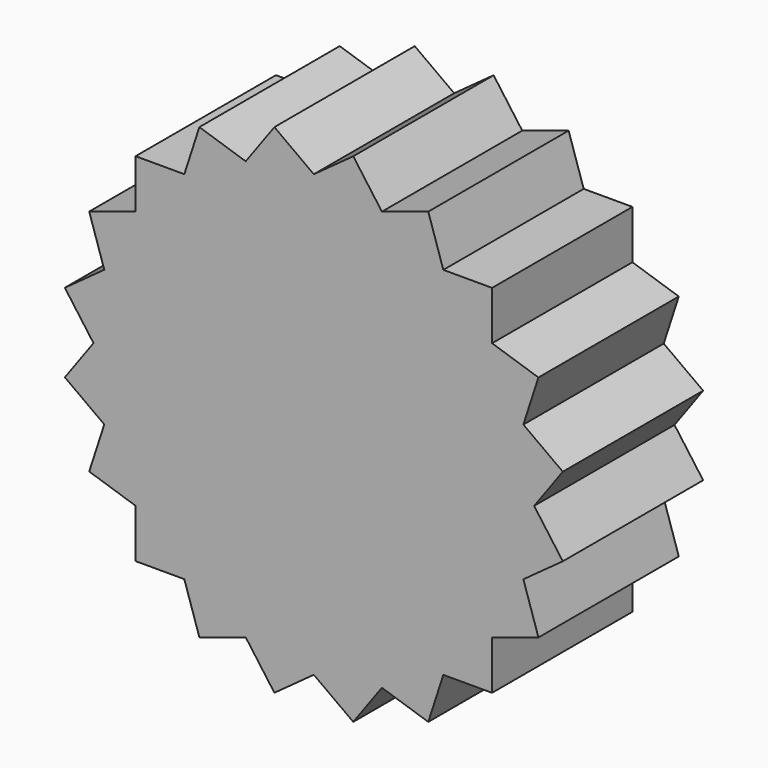
from build123d import *

# Parameters (mm, degrees)
F1_DEPTH = 25


with BuildPart() as f1:
    # F0 (on Front) → F1 (new body)
    with BuildSketch(Plane.XZ):
        Polygon((9.7019366858, -29.8594908165), (4.4594908165, -28.1561168971), (0, -31.3961266285), (5.6192862489, -35.4787770654), align=None)
        Polygon((5.6192862489, 35.4787770654), (0, 31.3961266285), (4.4594908165, 28.1561168971), (9.7019366858, 29.8594908165), align=None)
        Polygon((-28.1561168971, -4.4594908165), (-31.3961266285, 0), (-35.4787770654, -5.6192862489), (-29.8594908165, -9.7019366858), align=None)
        Polygon((4.0229647842, 25.4), (-4.0229647842, 25.4), (-11.67509853, 22.9136710278), (-18.1843922865, 18.1843922865), (-22.9136710278, 11.67509853), (-25.4, 4.0229647842), (-25.4, -4.0229647842), (-22.9136710278, -11.67509853), (-18.1843922865, -18.1843922865), (-11.67509853, -22.9136710278), (-4.0229647842, -25.4), (4.0229647842, -25.4), (11.67509853, -22.9136710278), (18.1843922865, -18.1843922865), (22.9136710278, -11.67509853), (25.4, -4.0229647842), (25.4, 4.0229647842), (22.9136710278, 11.67509853), (18.1843922865, 18.1843922865), (11.67509853, 22.9136710278), align=None)
        Polygon((25.4, 18.4541802113), (20.1575541307, 20.1575541307), (21.6065305321, 15.6980633142), (25.4, 12.9419464172), align=None)
        Polygon((-12.9419464172, -25.4), (-15.6980633142, -21.6065305321), (-20.1575541307, -20.1575541307), (-18.4541802113, -25.4), align=None)
        Polygon((-18.4541802113, 25.4), (-25.4, 25.4), (-25.4, 18.4541802113), (-20.1575541307, 20.1575541307), align=None)
        Polygon((-16.3078038568, 32.005867171), (-18.4541802113, 25.4), (-12.9419464172, 25.4), (-9.7019366858, 29.8594908165), align=None)
        Polygon((9.7019366858, 29.8594908165), (12.9419464172, 25.4), (18.4541802113, 25.4), (16.3078038568, 32.005867171), align=None)
        Polygon((25.4, -25.4), (25.4, -18.4541802113), (20.1575541307, -20.1575541307), (18.4541802113, -25.4), align=None)
        Polygon((-25.4, 12.9419464172), (-25.4, 18.4541802113), (-32.005867171, 16.3078038568), (-29.8594908165, 9.7019366858), align=None)
        Polygon((32.005867171, 16.3078038568), (25.4, 18.4541802113), (25.4, 12.9419464172), (29.8594908165, 9.7019366858), align=None)
        Polygon((29.8594908165, -9.7019366858), (25.4, -12.9419464172), (25.4, -18.4541802113), (32.005867171, -16.3078038568), align=None)
        Polygon((35.4787770654, 5.6192862489), (29.8594908165, 9.7019366858), (28.1561168971, 4.4594908165), (31.3961266285, 0), align=None)
        Polygon((-25.4, 4.0229647842), (-25.4, 8.2529602843), (-28.1561168971, 4.4594908165), (-26.7071404957, 0), align=None)
        Polygon((-4.4594908165, 28.1561168971), (-8.2529602843, 25.4), (-4.0229647842, 25.4), (0, 26.7071404957), align=None)
        Polygon((4.4594908165, -28.1561168971), (0, -26.7071404957), (-4.4594908165, -28.1561168971), (0, -31.3961266285), align=None)
        Polygon((15.6980633142, -21.6065305321), (12.9419464172, -25.4), (18.4541802113, -25.4), (20.1575541307, -20.1575541307), align=None)
        Polygon((0, 31.3961266285), (-4.4594908165, 28.1561168971), (0, 26.7071404957), (4.4594908165, 28.1561168971), align=None)
        Polygon((-28.1561168971, 4.4594908165), (-29.8594908165, 9.7019366858), (-35.4787770654, 5.6192862489), (-31.3961266285, 0), align=None)
        Polygon((-15.6980633142, 21.6065305321), (-20.1575541307, 20.1575541307), (-21.6065305321, 15.6980633142), (-18.1843922865, 18.1843922865), align=None)
        Polygon((28.1561168971, 4.4594908165), (25.4, 8.2529602843), (25.4, 4.0229647842), (26.7071404957, 0), align=None)
        Polygon((0, -26.7071404957), (-4.0229647842, -25.4), (-8.2529602843, -25.4), (-4.4594908165, -28.1561168971), align=None)
        Polygon((26.7071404957, 0), (25.4, -4.0229647842), (25.4, -8.2529602843), (28.1561168971, -4.4594908165), align=None)
        Polygon((-25.4, -12.9419464172), (-25.4, -8.2529602843), (-28.1561168971, -4.4594908165), (-29.8594908165, -9.7019366858), align=None)
        Polygon((28.1561168971, -4.4594908165), (25.4, -8.2529602843), (25.4, -12.9419464172), (29.8594908165, -9.7019366858), align=None)
        Polygon((-25.4, 8.2529602843), (-25.4, 12.9419464172), (-29.8594908165, 9.7019366858), (-28.1561168971, 4.4594908165), align=None)
        Polygon((11.67509853, -22.9136710278), (8.2529602843, -25.4), (12.9419464172, -25.4), (15.6980633142, -21.6065305321), align=None)
        Polygon((25.4, 25.4), (18.4541802113, 25.4), (20.1575541307, 20.1575541307), (25.4, 18.4541802113), align=None)
        Polygon((12.9419464172, 25.4), (8.2529602843, 25.4), (11.67509853, 22.9136710278), (15.6980633142, 21.6065305321), align=None)
        Polygon((8.2529602843, -25.4), (4.0229647842, -25.4), (0, -26.7071404957), (4.4594908165, -28.1561168971), align=None)
        Polygon((-20.1575541307, -20.1575541307), (-25.4, -18.4541802113), (-25.4, -25.4), (-18.4541802113, -25.4), align=None)
        Polygon((-9.7019366858, -29.8594908165), (-12.9419464172, -25.4), (-18.4541802113, -25.4), (-16.3078038568, -32.005867171), align=None)
        Polygon((18.4541802113, -25.4), (12.9419464172, -25.4), (9.7019366858, -29.8594908165), (16.3078038568, -32.005867171), align=None)
        Polygon((-25.4, -18.4541802113), (-25.4, -12.9419464172), (-29.8594908165, -9.7019366858), (-32.005867171, -16.3078038568), align=None)
        Polygon((25.4, -18.4541802113), (25.4, -12.9419464172), (21.6065305321, -15.6980633142), (20.1575541307, -20.1575541307), align=None)
        Polygon((25.4, -12.9419464172), (25.4, -8.2529602843), (22.9136710278, -11.67509853), (21.6065305321, -15.6980633142), align=None)
        Polygon((-22.9136710278, -11.67509853), (-25.4, -8.2529602843), (-25.4, -12.9419464172), (-21.6065305321, -15.6980633142), align=None)
        Polygon((-5.6192862489, 35.4787770654), (-9.7019366858, 29.8594908165), (-4.4594908165, 28.1561168971), (0, 31.3961266285), align=None)
        Polygon((12.9419464172, -25.4), (8.2529602843, -25.4), (4.4594908165, -28.1561168971), (9.7019366858, -29.8594908165), align=None)
        Polygon((4.4594908165, 28.1561168971), (8.2529602843, 25.4), (12.9419464172, 25.4), (9.7019366858, 29.8594908165), align=None)
        Polygon((18.4541802113, 25.4), (12.9419464172, 25.4), (15.6980633142, 21.6065305321), (20.1575541307, 20.1575541307), align=None)
        Polygon((35.4787770654, -5.6192862489), (31.3961266285, 0), (28.1561168971, -4.4594908165), (29.8594908165, -9.7019366858), align=None)
        Polygon((31.3961266285, 0), (28.1561168971, 4.4594908165), (26.7071404957, 0), (28.1561168971, -4.4594908165), align=None)
        Polygon((20.1575541307, 20.1575541307), (15.6980633142, 21.6065305321), (18.1843922865, 18.1843922865), (21.6065305321, 15.6980633142), align=None)
        Polygon((-21.6065305321, -15.6980633142), (-25.4, -12.9419464172), (-25.4, -18.4541802113), (-20.1575541307, -20.1575541307), align=None)
        Polygon((-21.6065305321, 15.6980633142), (-25.4, 12.9419464172), (-25.4, 8.2529602843), (-22.9136710278, 11.67509853), align=None)
        Polygon((-9.7019366858, 29.8594908165), (-12.9419464172, 25.4), (-8.2529602843, 25.4), (-4.4594908165, 28.1561168971), align=None)
        Polygon((20.1575541307, -20.1575541307), (21.6065305321, -15.6980633142), (18.1843922865, -18.1843922865), (15.6980633142, -21.6065305321), align=None)
        Polygon((-20.1575541307, 20.1575541307), (-25.4, 18.4541802113), (-25.4, 12.9419464172), (-21.6065305321, 15.6980633142), align=None)
        Polygon((-26.7071404957, 0), (-28.1561168971, 4.4594908165), (-31.3961266285, 0), (-28.1561168971, -4.4594908165), align=None)
        Polygon((25.4, 12.9419464172), (21.6065305321, 15.6980633142), (22.9136710278, 11.67509853), (25.4, 8.2529602843), align=None)
        Polygon((-4.4594908165, -28.1561168971), (-8.2529602843, -25.4), (-12.9419464172, -25.4), (-9.7019366858, -29.8594908165), align=None)
        Polygon((29.8594908165, 9.7019366858), (25.4, 12.9419464172), (25.4, 8.2529602843), (28.1561168971, 4.4594908165), align=None)
        Polygon((-8.2529602843, -25.4), (-11.67509853, -22.9136710278), (-15.6980633142, -21.6065305321), (-12.9419464172, -25.4), align=None)
        Polygon((-25.4, -8.2529602843), (-25.4, -4.0229647842), (-26.7071404957, 0), (-28.1561168971, -4.4594908165), align=None)
        Polygon((0, 26.7071404957), (4.0229647842, 25.4), (8.2529602843, 25.4), (4.4594908165, 28.1561168971), align=None)
        Polygon((-12.9419464172, 25.4), (-18.4541802113, 25.4), (-20.1575541307, 20.1575541307), (-15.6980633142, 21.6065305321), align=None)
        Polygon((0, -31.3961266285), (-4.4594908165, -28.1561168971), (-9.7019366858, -29.8594908165), (-5.6192862489, -35.4787770654), align=None)
        Polygon((-15.6980633142, -21.6065305321), (-18.1843922865, -18.1843922865), (-21.6065305321, -15.6980633142), (-20.1575541307, -20.1575541307), align=None)
        Polygon((-8.2529602843, 25.4), (-12.9419464172, 25.4), (-15.6980633142, 21.6065305321), (-11.67509853, 22.9136710278), align=None)
        Polygon((21.6065305321, -15.6980633142), (22.9136710278, -11.67509853), (18.1843922865, -18.1843922865), align=None)
        Polygon((-25.4, -4.0229647842), (-25.4, 4.0229647842), (-26.7071404957, 0), align=None)
        Polygon((15.6980633142, 21.6065305321), (11.67509853, 22.9136710278), (18.1843922865, 18.1843922865), align=None)
        Polygon((21.6065305321, 15.6980633142), (18.1843922865, 18.1843922865), (22.9136710278, 11.67509853), align=None)
        Polygon((25.4, 8.2529602843), (22.9136710278, 11.67509853), (25.4, 4.0229647842), align=None)
        Polygon((-11.67509853, 22.9136710278), (-15.6980633142, 21.6065305321), (-18.1843922865, 18.1843922865), align=None)
        Polygon((-4.0229647842, -25.4), (-11.67509853, -22.9136710278), (-8.2529602843, -25.4), align=None)
        Polygon((0, 26.7071404957), (-4.0229647842, 25.4), (4.0229647842, 25.4), align=None)
        Polygon((18.1843922865, -18.1843922865), (11.67509853, -22.9136710278), (15.6980633142, -21.6065305321), align=None)
        Polygon((4.0229647842, -25.4), (-4.0229647842, -25.4), (0, -26.7071404957), align=None)
        Polygon((11.67509853, -22.9136710278), (4.0229647842, -25.4), (8.2529602843, -25.4), align=None)
        Polygon((-11.67509853, -22.9136710278), (-18.1843922865, -18.1843922865), (-15.6980633142, -21.6065305321), align=None)
        Polygon((-18.1843922865, 18.1843922865), (-21.6065305321, 15.6980633142), (-22.9136710278, 11.67509853), align=None)
        Polygon((25.4, -8.2529602843), (25.4, -4.0229647842), (22.9136710278, -11.67509853), align=None)
        Polygon((-22.9136710278, -11.67509853), (-25.4, -4.0229647842), (-25.4, -8.2529602843), align=None)
        Polygon((26.7071404957, 0), (25.4, 4.0229647842), (25.4, -4.0229647842), align=None)
        Polygon((-4.0229647842, 25.4), (-8.2529602843, 25.4), (-11.67509853, 22.9136710278), align=None)
        Polygon((8.2529602843, 25.4), (4.0229647842, 25.4), (11.67509853, 22.9136710278), align=None)
        Polygon((-18.1843922865, -18.1843922865), (-22.9136710278, -11.67509853), (-21.6065305321, -15.6980633142), align=None)
        Polygon((-22.9136710278, 11.67509853), (-25.4, 8.2529602843), (-25.4, 4.0229647842), align=None)
    extrude(amount=F1_DEPTH)


solid = f1.part
